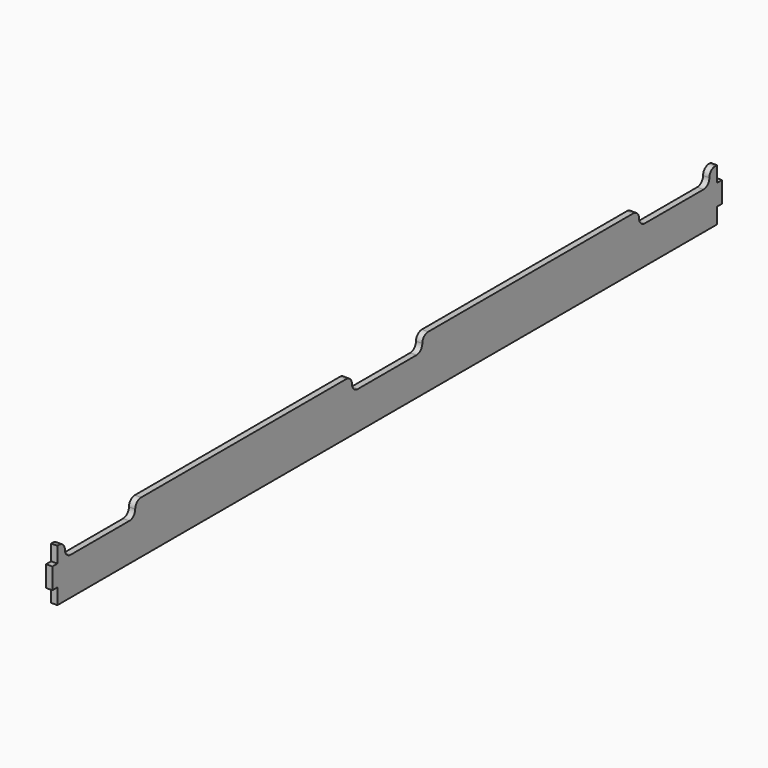
from build123d import *

# Parameters (mm, degrees)
PAD002_DEPTH        = 3
POCKET_DEPTH        = 3
LINEARPATTERN_COUNT = 3
LINEARPATTERN_PITCH = 171.5


with BuildPart() as part:
    # Sketch002 → Pad002 (new body)
    with BuildSketch(Plane.YZ):
        Polygon((0, -17.5), (394, -17.5), (394, -10), (397, -10), (397, 0), (394, 0), (394, 7.5), (0, 7.5), (0, 0), (-3, 0), (-3, -10), (0, -10), align=None)
    extrude(amount=PAD002_DEPTH)

    # Sketch003 → Pocket (cut)
    with BuildSketch(Plane.YZ.offset(3)):
        with BuildLine():
            ThreePointArc((4.499999, 4.000001), (5.525124, 1.525129), (7.999997, 0.500003))
            Line((7.999997, 0.500003), (42.999997, 0.500003))
            ThreePointArc((42.999997, 0.500003), (45.474872, 1.525128), (46.499999, 4.000001))
            ThreePointArc((49.999997, 7.5), (47.525124, 6.474874), (46.499999, 4.000001))
            Line((1, 7.5), (49.999997, 7.5))
            ThreePointArc((4.499999, 4.000001), (3.474873, 6.474874), (1, 7.5))
        make_face()
    pocket = extrude(amount=-POCKET_DEPTH, mode=Mode.SUBTRACT)

    # LinearPattern: Pocket ×3
    with Locations(*[(0, i * LINEARPATTERN_PITCH, 0) for i in range(1, LINEARPATTERN_COUNT)]):
        add(pocket, mode=Mode.SUBTRACT)


with BuildPart() as part_1:
    # Body002 placement: moved
    add(part.part.moved(Location((91, 0, 31))))


solid = part_1.part
